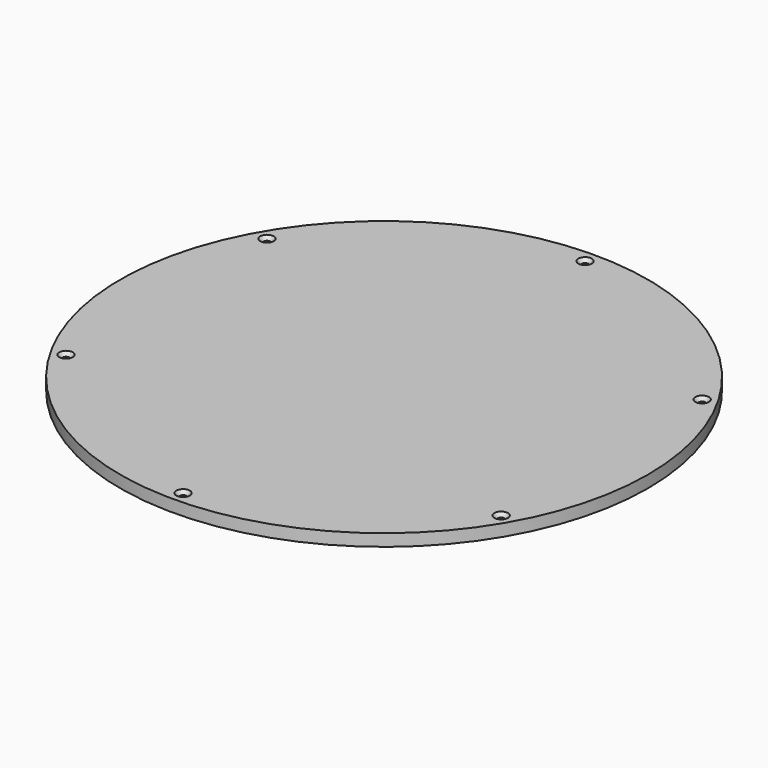
from build123d import *

# Parameters (mm, degrees)
F0_R           = 175
F0_R_2         = 1.65
F1_DEPTH       = 8
F3_D           = 4.4
F3_CSINK_D     = 8.96
F3_CSINK_ANGLE = 90


with BuildPart() as f1:
    # F0 (on Top) → F1 (new body)
    with BuildSketch(Plane.XY):
        Circle(F0_R)
        with Locations((-144.2451912543, -83.28)):
            Circle(F0_R_2, mode=Mode.SUBTRACT)
        with Locations((0, -166.56)):
            Circle(F0_R_2, mode=Mode.SUBTRACT)
        with Locations((144.2451912543, -83.28)):
            Circle(F0_R_2, mode=Mode.SUBTRACT)
        with Locations((-144.2451912543, 83.28)):
            Circle(F0_R_2, mode=Mode.SUBTRACT)
        with Locations((144.2451912543, 83.28)):
            Circle(F0_R_2, mode=Mode.SUBTRACT)
        with Locations((0, 166.56)):
            Circle(F0_R_2, mode=Mode.SUBTRACT)
    extrude(amount=F1_DEPTH)

    # F3 (through all)
    with Locations(Plane.XY.offset(8)):
        with Locations((-144.2451912543, -83.28), (-144.2451912543, 83.28), (0, 166.56), (144.2451912543, 83.28), (144.2451912543, -83.28), (0, -166.56)):
            CounterSinkHole(F3_D / 2, F3_CSINK_D / 2, counter_sink_angle=F3_CSINK_ANGLE)


solid = f1.part
